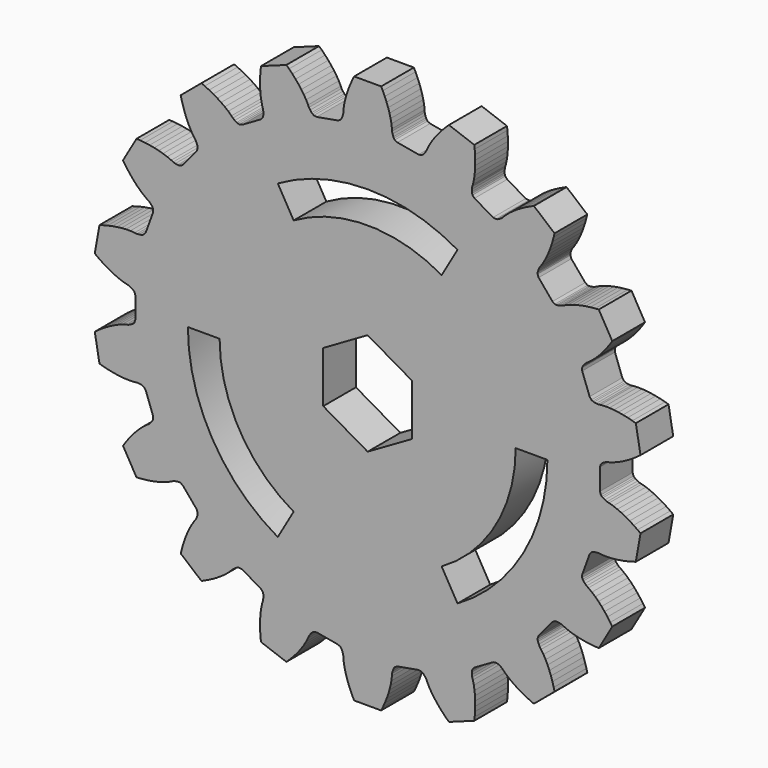
from build123d import *

# Parameters (mm, degrees)
F1_DEPTH = 2.9
F3_DEPTH = 2.901
F5_DEPTH = 2.901


with BuildPart() as f1:
    # F0 (on Front) → F1 (new body)
    with BuildSketch(Plane.XZ):
        Polygon((-16.540348, 0.958231), (-16.475048, 0.762331), (-16.475048, -0.762169), (-16.540348, -0.958169), (-16.611148, -1.035569), (-16.683048, -1.091869), (-16.828648, -1.173269), (-16.975148, -1.238369), (-17.123848, -1.271369), (-17.419448, -1.360169), (-17.712848, -1.472069), (-18.004148, -1.603169), (-18.293248, -1.751269), (-18.579848, -1.915169), (-18.863948, -2.093869), (-19.145148, -2.286569), (-19.354148, -2.439969), (-19.021448, -4.326569), (-18.772648, -4.399269), (-18.442448, -4.484169), (-18.114448, -4.554869), (-17.788948, -4.610769), (-17.466648, -4.651169), (-17.148148, -4.674669), (-16.834148, -4.679569), (-16.525948, -4.661869), (-16.374948, -4.641969), (-16.215048, -4.653169), (-16.050448, -4.679769), (-15.963548, -4.708069), (-15.870548, -4.756669), (-15.742148, -4.918469), (-15.220748, -6.350969), (-15.215048, -6.557469), (-15.255148, -6.654469), (-15.303548, -6.731969), (-15.412448, -6.858169), (-15.527848, -6.969469), (-15.656348, -7.051369), (-15.903648, -7.235869), (-16.141148, -7.441469), (-16.370048, -7.664269), (-16.590948, -7.902369), (-16.804348, -8.154369), (-17.010148, -8.419369), (-17.208548, -8.696669), (-17.352448, -8.912269), (-16.394548, -10.571369), (-16.135848, -10.554569), (-15.796548, -10.521369), (-15.464148, -10.475669), (-15.139148, -10.416969), (-14.822548, -10.344569), (-14.515148, -10.257769), (-14.218348, -10.154869), (-13.934848, -10.032969), (-13.799748, -9.962669), (-13.645648, -9.918369), (-13.481848, -9.887169), (-13.390548, -9.883969), (-13.286548, -9.897769), (-13.110548, -10.005969), (-12.130648, -11.173769), (-12.054648, -11.365869), (-12.059148, -11.470769), (-12.078148, -11.560069), (-12.137348, -11.715969), (-12.207648, -11.860069), (-12.300348, -11.980869), (-12.469748, -12.238869), (-12.622548, -12.513269), (-12.761448, -12.800869), (-12.887648, -13.100169), (-13.001948, -13.409969), (-13.104648, -13.729469), (-13.196248, -14.057869), (-13.257748, -14.309669), (-11.790248, -15.541069), (-11.552848, -15.436869), (-11.245348, -15.289569), (-10.948548, -15.132969), (-10.663348, -14.966569), (-10.390548, -14.790369), (-10.131348, -14.603569), (-9.887748, -14.405469), (-9.662948, -14.193869), (-9.560048, -14.081569), (-9.430448, -13.987369), (-9.287148, -13.901969), (-9.202448, -13.867769), (-9.099948, -13.845169), (-8.897648, -13.886569), (-7.577448, -14.648869), (-7.440348, -14.803369), (-7.408648, -14.903469), (-7.395948, -14.993869), (-7.398248, -15.160569), (-7.415048, -15.320069), (-7.460848, -15.465269), (-7.531748, -15.765669), (-7.581548, -16.075769), (-7.613648, -16.393569), (-7.629848, -16.717969), (-7.631248, -17.048169), (-7.618648, -17.383469), (-7.592348, -17.723469), (-7.563948, -17.981069), (-5.763748, -18.636369), (-5.576348, -18.457169), (-5.337748, -18.213669), (-5.112548, -17.964969), (-4.901348, -17.711069), (-4.705248, -17.452169), (-4.525648, -17.188069), (-4.364448, -16.918469), (-4.225648, -16.642869), (-4.167348, -16.502069), (-4.077748, -16.369169), (-3.972348, -16.239969), (-3.904448, -16.178869), (-3.815848, -16.122569), (-3.611548, -16.092269), (-2.110248, -16.357069), (-1.928548, -16.455369), (-1.864548, -16.538569), (-1.821648, -16.619169), (-1.766848, -16.776669), (-1.728048, -16.932169), (-1.721448, -17.084369), (-1.685248, -17.390869), (-1.626048, -17.699269), (-1.547548, -18.008969), (-1.451848, -18.319369), (-1.340248, -18.630069), (-1.213648, -18.940869), (-1.072648, -19.251269), (-0.957848, -19.483769), (0.957852, -19.483769), (1.072652, -19.251269), (1.213552, -18.940869), (1.340152, -18.630069), (1.451752, -18.319369), (1.547452, -18.008969), (1.625952, -17.699269), (1.685252, -17.390869), (1.721452, -17.084369), (1.728052, -16.932169), (1.766752, -16.776669), (1.821652, -16.619169), (1.864552, -16.538569), (1.928552, -16.455369), (2.110152, -16.357069), (3.611552, -16.092269), (3.815852, -16.122569), (3.904352, -16.178869), (3.972352, -16.239969), (4.077752, -16.369169), (4.167352, -16.502069), (4.225552, -16.642869), (4.364352, -16.918469), (4.525552, -17.188069), (4.705252, -17.452169), (4.901352, -17.711069), (5.112452, -17.964969), (5.337752, -18.213669), (5.576352, -18.457169), (5.763752, -18.636369), (7.563952, -17.981069), (7.592352, -17.723469), (7.618552, -17.383469), (7.631252, -17.048169), (7.629852, -16.717969), (7.613652, -16.393569), (7.581452, -16.075769), (7.531652, -15.765669), (7.460852, -15.465269), (7.415052, -15.320069), (7.398252, -15.160569), (7.395852, -14.993869), (7.408652, -14.903469), (7.440352, -14.803369), (7.577352, -14.648869), (8.897652, -13.886569), (9.099952, -13.845169), (9.202452, -13.867769), (9.287152, -13.901969), (9.430452, -13.987369), (9.560052, -14.081569), (9.662952, -14.193869), (9.887652, -14.405469), (10.131352, -14.603569), (10.390452, -14.790369), (10.663352, -14.966569), (10.948552, -15.132969), (11.245352, -15.289569), (11.552852, -15.436869), (11.790152, -15.541069), (13.257652, -14.309669), (13.196252, -14.057869), (13.104652, -13.729469), (13.001852, -13.409969), (12.887652, -13.100169), (12.761452, -12.800869), (12.622552, -12.513269), (12.469652, -12.238869), (12.300352, -11.980869), (12.207652, -11.860069), (12.137252, -11.715969), (12.078052, -11.560069), (12.059152, -11.470769), (12.054652, -11.365869), (12.130652, -11.173769), (13.110552, -10.005969), (13.286552, -9.897769), (13.390552, -9.883969), (13.481852, -9.887169), (13.645652, -9.918369), (13.799752, -9.962669), (13.934852, -10.032969), (14.218352, -10.154869), (14.515052, -10.257769), (14.822452, -10.344569), (15.139152, -10.416969), (15.464052, -10.475669), (15.796552, -10.521369), (16.135852, -10.554569), (16.394552, -10.571369), (17.352352, -8.912269), (17.208452, -8.696669), (17.010152, -8.419369), (16.804252, -8.154369), (16.590952, -7.902369), (16.369952, -7.664269), (16.141052, -7.441469), (15.903652, -7.235869), (15.656252, -7.051369), (15.527852, -6.969469), (15.412452, -6.858169), (15.303452, -6.731969), (15.255152, -6.654469), (15.215052, -6.557469), (15.220752, -6.350969), (15.742152, -4.918469), (15.870552, -4.756669), (15.963552, -4.708069), (16.050452, -4.679769), (16.215052, -4.653169), (16.374952, -4.641969), (16.525952, -4.661869), (16.834052, -4.679569), (17.148152, -4.674669), (17.466652, -4.651169), (17.788952, -4.610769), (18.114352, -4.554869), (18.442452, -4.484169), (18.772652, -4.399269), (19.021452, -4.326569), (19.354152, -2.439969), (19.145152, -2.286569), (18.863852, -2.093869), (18.579852, -1.915169), (18.293152, -1.751269), (18.004152, -1.603169), (17.712852, -1.472069), (17.419352, -1.360169), (17.123852, -1.271369), (16.975152, -1.238369), (16.828652, -1.173269), (16.683052, -1.091869), (16.611152, -1.035569), (16.540252, -0.958169), (16.475052, -0.762169), (16.475052, 0.762331), (16.540252, 0.958231), (16.611152, 1.035731), (16.683052, 1.092031), (16.828652, 1.173331), (16.975152, 1.238531), (17.123852, 1.271431), (17.419352, 1.360331), (17.712852, 1.472231), (18.004152, 1.603331), (18.293152, 1.751431), (18.579852, 1.915331), (18.863852, 2.093931), (19.145152, 2.286631), (19.354152, 2.440131), (19.021452, 4.326731), (18.772652, 4.399431), (18.442452, 4.484331), (18.114352, 4.555031), (17.788952, 4.610931), (17.466652, 4.651331), (17.148152, 4.674831), (16.834052, 4.679631), (16.525952, 4.662031), (16.374952, 4.642131), (16.215052, 4.653231), (16.050452, 4.679931), (15.963552, 4.708231), (15.870552, 4.756731), (15.742152, 4.918631), (15.220752, 6.351131), (15.215052, 6.557631), (15.255152, 6.654631), (15.303452, 6.732131), (15.412452, 6.858331), (15.527852, 6.969631), (15.656252, 7.051431), (15.903652, 7.236031), (16.141052, 7.441631), (16.369952, 7.664431), (16.590952, 7.902431), (16.804252, 8.154531), (17.010152, 8.419531), (17.208452, 8.696831), (17.352352, 8.912431), (16.394552, 10.571531), (16.135852, 10.554731), (15.796552, 10.521531), (15.464052, 10.475831), (15.139152, 10.417031), (14.822452, 10.344731), (14.515052, 10.257931), (14.218352, 10.155031), (13.934852, 10.033131), (13.799752, 9.962731), (13.645652, 9.918531), (13.481852, 9.887231), (13.390552, 9.884131), (13.286552, 9.897931), (13.110552, 10.006131), (12.130652, 11.173931), (12.054652, 11.366031), (12.059152, 11.470831), (12.078052, 11.560231), (12.137252, 11.716131), (12.207652, 11.860131), (12.300352, 11.981031), (12.469652, 12.239031), (12.622552, 12.513431), (12.761452, 12.801031), (12.887652, 13.100331), (13.001852, 13.410131), (13.104652, 13.729531), (13.196252, 14.058031), (13.257652, 14.309831), (11.790152, 15.541231), (11.552852, 15.436931), (11.245352, 15.289731), (10.948552, 15.133031), (10.663352, 14.966731), (10.390452, 14.790431), (10.131352, 14.603731), (9.887652, 14.405631), (9.662952, 14.194031), (9.560052, 14.081731), (9.430452, 13.987431), (9.287152, 13.902031), (9.202452, 13.867931), (9.099952, 13.845331), (8.897652, 13.886731), (7.577352, 14.649031), (7.440352, 14.803531), (7.408652, 14.903531), (7.395852, 14.994031), (7.398252, 15.160731), (7.415052, 15.320131), (7.460852, 15.465431), (7.531652, 15.765831), (7.581452, 16.075931), (7.613652, 16.393731), (7.629852, 16.718131), (7.631252, 17.048331), (7.618552, 17.383631), (7.592352, 17.723531), (7.563952, 17.981231), (5.763752, 18.636431), (5.576352, 18.457331), (5.337752, 18.213831), (5.112452, 17.965031), (4.901352, 17.711231), (4.705252, 17.452231), (4.525552, 17.188131), (4.364352, 16.918631), (4.225552, 16.642931), (4.167352, 16.502231), (4.077752, 16.369331), (3.972352, 16.240031), (3.904352, 16.179031), (3.815852, 16.122731), (3.611552, 16.092431), (2.110152, 16.357131), (1.928552, 16.455431), (1.864552, 16.538731), (1.821652, 16.619331), (1.766752, 16.776831), (1.728052, 16.932331), (1.721452, 17.084531), (1.685252, 17.391031), (1.625952, 17.699431), (1.547452, 18.009031), (1.451752, 18.319431), (1.340152, 18.630231), (1.213552, 18.941031), (1.072652, 19.251431), (0.957852, 19.483831), (-0.957848, 19.483831), (-1.072648, 19.251431), (-1.213648, 18.941031), (-1.340248, 18.630231), (-1.451848, 18.319431), (-1.547548, 18.009031), (-1.626048, 17.699431), (-1.685248, 17.391031), (-1.721448, 17.084531), (-1.728048, 16.932331), (-1.766848, 16.776831), (-1.821648, 16.619331), (-1.864548, 16.538731), (-1.928548, 16.455431), (-2.110248, 16.357131), (-3.611548, 16.092431), (-3.815848, 16.122731), (-3.904448, 16.179031), (-3.972348, 16.240031), (-4.077748, 16.369331), (-4.167348, 16.502231), (-4.225648, 16.642931), (-4.364448, 16.918631), (-4.525648, 17.188131), (-4.705248, 17.452231), (-4.901348, 17.711231), (-5.112548, 17.965031), (-5.337748, 18.213831), (-5.576348, 18.457331), (-5.763748, 18.636431), (-7.563948, 17.981231), (-7.592348, 17.723531), (-7.618648, 17.383631), (-7.631248, 17.048331), (-7.629848, 16.718131), (-7.613648, 16.393731), (-7.581548, 16.075931), (-7.531748, 15.765831), (-7.460848, 15.465431), (-7.415048, 15.320131), (-7.398248, 15.160731), (-7.395948, 14.994031), (-7.408648, 14.903531), (-7.440348, 14.803531), (-7.577448, 14.649031), (-8.897648, 13.886731), (-9.099948, 13.845331), (-9.202448, 13.867931), (-9.287148, 13.902031), (-9.430448, 13.987431), (-9.560048, 14.081731), (-9.662948, 14.194031), (-9.887748, 14.405631), (-10.131348, 14.603731), (-10.390548, 14.790431), (-10.663348, 14.966731), (-10.948548, 15.133031), (-11.245348, 15.289731), (-11.552848, 15.436931), (-11.790248, 15.541231), (-13.257748, 14.309831), (-13.196248, 14.058031), (-13.104648, 13.729531), (-13.001948, 13.410131), (-12.887648, 13.100331), (-12.761448, 12.801031), (-12.622548, 12.513431), (-12.469748, 12.239031), (-12.300348, 11.981031), (-12.207648, 11.860131), (-12.137348, 11.716131), (-12.078148, 11.560231), (-12.059148, 11.470831), (-12.054648, 11.366031), (-12.130648, 11.173931), (-13.110548, 10.006131), (-13.286548, 9.897931), (-13.390548, 9.884131), (-13.481848, 9.887231), (-13.645648, 9.918531), (-13.799748, 9.962731), (-13.934848, 10.033131), (-14.218348, 10.155031), (-14.515148, 10.257931), (-14.822548, 10.344731), (-15.139148, 10.417031), (-15.464148, 10.475831), (-15.796548, 10.521531), (-16.135848, 10.554731), (-16.394548, 10.571531), (-17.352448, 8.912431), (-17.208548, 8.696831), (-17.010148, 8.419531), (-16.804348, 8.154531), (-16.590948, 7.902431), (-16.370048, 7.664431), (-16.141148, 7.441631), (-15.903648, 7.236031), (-15.656348, 7.051431), (-15.527848, 6.969631), (-15.412448, 6.858331), (-15.303548, 6.732131), (-15.255148, 6.654631), (-15.215048, 6.557631), (-15.220748, 6.351131), (-15.742148, 4.918631), (-15.870548, 4.756731), (-15.963548, 4.708231), (-16.050448, 4.679931), (-16.215048, 4.653231), (-16.374948, 4.642131), (-16.525948, 4.662031), (-16.834148, 4.679631), (-17.148148, 4.674831), (-17.466648, 4.651331), (-17.788948, 4.610931), (-18.114448, 4.555031), (-18.442448, 4.484331), (-18.772648, 4.399431), (-19.021448, 4.326731), (-19.354148, 2.440131), (-19.145148, 2.286631), (-18.863948, 2.093931), (-18.579848, 1.915331), (-18.293248, 1.751431), (-18.004148, 1.603331), (-17.712848, 1.472231), (-17.419448, 1.360331), (-17.123848, 1.271431), (-16.975148, 1.238531), (-16.828648, 1.173331), (-16.683048, 1.092031), (-16.611148, 1.035731), align=None)
    extrude(amount=F1_DEPTH)

    # F2 (on face) → F3 (cut, through all)
    with BuildSketch(Plane.XZ.offset(2.9)):
        Polygon((3.15, -1.818653), (3.15, 1.818653), (0, 3.637307), (-3.15, 1.818653), (-3.15, -1.818653), (0, -3.637307), align=None)
    extrude(amount=-F3_DEPTH, mode=Mode.SUBTRACT)

    # F4 (on face) → F5 (cut, through all)
    with BuildSketch(Plane.XZ.offset(2.9)):
        with BuildLine():
            Line((5.25, 9.093267), (6.375, 11.041824))
            ThreePointArc((6.375, 11.041824), (0, 12.75), (-6.375, 11.041824))
            Line((-6.375, 11.041824), (-5.25, 9.093267))
            ThreePointArc((-5.25, 9.093267), (0, 10.5), (5.25, 9.093267))
        make_face()
        with BuildLine():
            ThreePointArc((-12.75, 0), (-11.041824, -6.375), (-6.375, -11.041824))
            Line((-6.375, -11.041824), (-5.25, -9.093267))
            ThreePointArc((-5.25, -9.093267), (-9.093267, -5.25), (-10.5, 0))
            Line((-10.5, 0), (-12.75, 0))
        make_face()
        with BuildLine():
            ThreePointArc((6.375, -11.041824), (11.041824, -6.375), (12.75, 0))
            Line((12.75, 0), (10.5, 0))
            ThreePointArc((10.5, 0), (9.093267, -5.25), (5.25, -9.093267))
            Line((5.25, -9.093267), (6.375, -11.041824))
        make_face()
    extrude(amount=-F5_DEPTH, mode=Mode.SUBTRACT)


solid = f1.part
